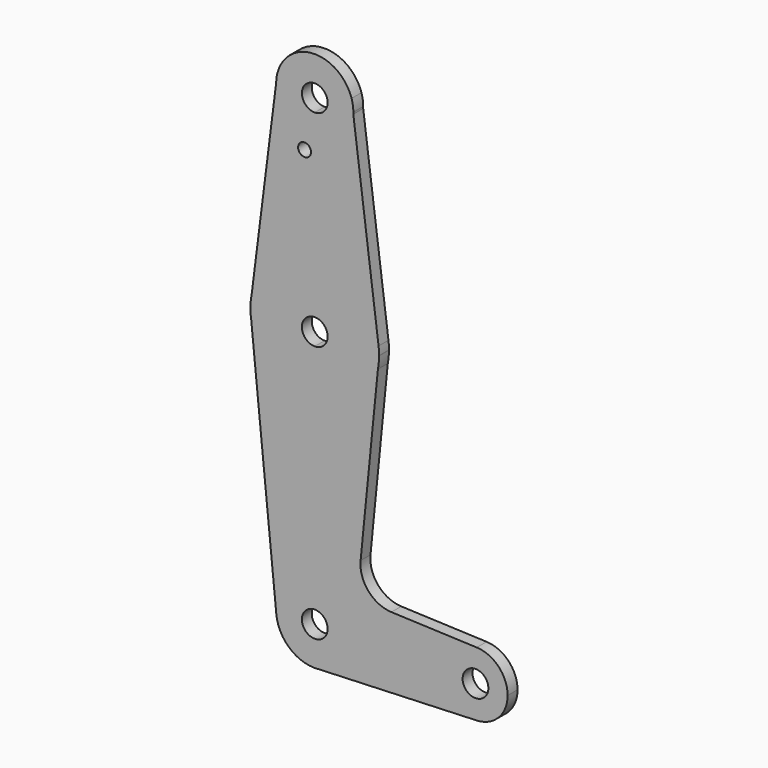
from build123d import *

# Parameters (mm, degrees)
F0_R     = 1.5939084554
F1_DEPTH = 3.048


with BuildPart() as f1:
    # F0 (on Front) → F1 (new body)
    with BuildSketch(Plane.XZ):
        with BuildLine():
            ThreePointArc((-37.513228268, 58.1266457065), (-37.5049761739, 58.3554311802), (-37.5022249461, 58.5843488964))
            ThreePointArc((-37.5022249461, 58.5843488964), (-37.6124710423, 60.0293519865), (-37.9406572675, 61.4409050085))
            Line((-37.9406572675, 61.4409050085), (-37.513228268, 58.1266457065))
        make_face()
        with BuildLine():
            Line((-37.513228268, 58.1266457065), (-37.9406572675, 61.4409050085))
            ThreePointArc((-37.9406572675, 61.4409050085), (-47.3561500663, 68.1036678461), (-56.2892930862, 60.8068967067))
            Line((-56.2892930862, 60.8068967067), (-56.5510749385, 58.7323567411))
            ThreePointArc((-56.5510749385, 58.7323567411), (-53.8145439942, 51.9016903581), (-47.0272249461, 49.0593488964))
            ThreePointArc((-47.0272249461, 49.0593488964), (-40.4558475366, 51.689232948), (-37.513228268, 58.1266457065))
        make_face()
        with BuildLine():
            ThreePointArc((-43.8522249461, 58.5843488964), (-44.7821609158, 56.3392848661), (-47.0272249461, 55.4093488964))
            ThreePointArc((-47.0272249461, 55.4093488964), (-49.2722889764, 60.8294129267), (-43.8522249461, 58.5843488964))
        make_face(mode=Mode.SUBTRACT)
        with BuildLine():
            Line((-31.2826202902, 9.8148781945), (-37.513228268, 58.1266457065))
            ThreePointArc((-37.513228268, 58.1266457065), (-40.4558475366, 51.689232948), (-47.0272249461, 49.0593488964))
            Line((-47.0272249461, 49.0593488964), (-47.0272249461, 23.6593488964))
            ThreePointArc((-47.0272249461, 23.6593488964), (-36.5443586302, 19.7059737355), (-31.2826202902, 9.8148781945))
        make_face()
        with BuildLine():
            Line((-56.5510749385, 58.7323567411), (-56.2892930862, 60.8068967067))
            ThreePointArc((-56.2892930862, 60.8068967067), (-56.4772836251, 59.7768320044), (-56.5510749385, 58.7323567411))
        make_face()
        with BuildLine():
            Line((-47.0272249461, 23.6593488964), (-47.0272249461, 49.0593488964))
            ThreePointArc((-47.0272249461, 49.0593488964), (-53.8145439942, 51.9016903581), (-56.5510749385, 58.7323567411))
            Line((-56.5510749385, 58.7323567411), (-62.5761934224, 10.9851619686))
            ThreePointArc((-62.5761934224, 10.9851619686), (-57.0572478145, 20.0893993335), (-47.0272249461, 23.6593488964))
        make_face()
        with Locations((-49.5402999222, 46.5105995536)):
            Circle(F0_R, mode=Mode.SUBTRACT)
        with BuildLine():
            ThreePointArc((-31.1522249461, 7.7843488964), (-31.1848573214, 8.8017048047), (-31.2826202902, 9.8148781945))
            ThreePointArc((-31.2826202902, 9.8148781945), (-36.5443586302, 19.7059737355), (-47.0272249461, 23.6593488964))
            Line((-47.0272249461, 23.6593488964), (-47.0272249461, 10.9593488964))
            ThreePointArc((-47.0272249461, 10.9593488964), (-44.7821609158, 10.0294129267), (-43.8522249461, 7.7843488964))
            ThreePointArc((-43.8522249461, 7.7843488964), (-44.7821609158, 5.5392848661), (-47.0272249461, 4.6093488964))
            Line((-47.0272249461, 4.6093488964), (-47.0272249461, -8.0906511036))
            ThreePointArc((-47.0272249461, -8.0906511036), (-36.9406754756, -4.4744089844), (-31.4494526235, 4.7267952233))
            Line((-31.4494526235, 4.7267952233), (-31.1523694634, 7.7166111531))
            ThreePointArc((-31.1523694634, 7.7166111531), (-31.1522610755, 7.7504799477), (-31.1522249461, 7.7843488964))
        make_face()
        with BuildLine():
            Line((-47.0272249461, 10.9593488964), (-47.0272249461, 23.6593488964))
            ThreePointArc((-47.0272249461, 23.6593488964), (-57.0572478145, 20.0893993335), (-62.5761934224, 10.9851619686))
            ThreePointArc((-62.5761934224, 10.9851619686), (-62.849805464, 9.0733681958), (-62.8892440844, 7.1424970002))
            Line((-62.8892440844, 7.1424970002), (-62.7019557202, 5.2706981331))
            ThreePointArc((-62.7019557202, 5.2706981331), (-57.3255602274, -4.2970382521), (-47.0272249461, -8.0906511036))
            Line((-47.0272249461, -8.0906511036), (-47.0272249461, 4.6093488964))
            ThreePointArc((-47.0272249461, 4.6093488964), (-50.2022249461, 7.7843488964), (-47.0272249461, 10.9593488964))
        make_face()
        with BuildLine():
            ThreePointArc((-31.4494526235, 4.7267952233), (-31.2300195353, 6.2146590511), (-31.1523694634, 7.7166111531))
            Line((-31.1523694634, 7.7166111531), (-31.4494526235, 4.7267952233))
        make_face()
        with BuildLine():
            Line((-62.7019557202, 5.2706981331), (-62.8892440844, 7.1424970002))
            ThreePointArc((-62.8892440844, 7.1424970002), (-62.8233496768, 6.203820981), (-62.7019557202, 5.2706981331))
        make_face()
        with BuildLine():
            Line((-35.7167991292, -38.2193635433), (-31.4494526235, 4.7267952233))
            ThreePointArc((-31.4494526235, 4.7267952233), (-36.9406754756, -4.4744089844), (-47.0272249461, -8.0906511036))
            Line((-47.0272249461, -8.0906511036), (-47.0272249461, -46.1906511036))
            ThreePointArc((-47.0272249461, -46.1906511036), (-40.2920328553, -48.9804590128), (-37.5022249461, -55.7156511036))
            Line((-37.5022249461, -55.7156511036), (-15.310948927, -55.7156511036))
            ThreePointArc((-15.310948927, -55.7156511036), (-12.8738194092, -49.9929043149), (-7.0590230542, -47.7843811788))
            Line((-7.0590230542, -47.7843811788), (-28.1204876136, -46.9494241745))
            ThreePointArc((-28.1204876136, -46.9494241745), (-33.8031377964, -44.2241541431), (-35.7167991292, -38.2193635433))
        make_face()
        with BuildLine():
            ThreePointArc((-47.0272249461, -8.0906511036), (-57.3255602274, -4.2970382521), (-62.7019557202, 5.2706981331))
            Line((-62.7019557202, 5.2706981331), (-56.5048997845, -56.6639678528))
            ThreePointArc((-56.5048997845, -56.6639678528), (-54.0897436907, -49.3245280425), (-47.0272249461, -46.1906511036))
            Line((-47.0272249461, -46.1906511036), (-47.0272249461, -8.0906511036))
        make_face()
        with BuildLine():
            ThreePointArc((-47.0272249461, -46.1906511036), (-54.0897436907, -49.3245280425), (-56.5048997845, -56.6639678528))
            ThreePointArc((-56.5048997845, -56.6639678528), (-53.0237393117, -63.1161538205), (-45.9900241775, -65.1840110231))
            ThreePointArc((-45.9900241775, -65.1840110231), (-39.9348007371, -62.0735708766), (-37.5022249461, -55.7156511036))
            Line((-37.5022249461, -55.7156511036), (-43.8522249461, -55.7156511036))
            ThreePointArc((-43.8522249461, -55.7156511036), (-49.2722889764, -57.9607151339), (-47.0272249461, -52.5406511036))
            Line((-47.0272249461, -52.5406511036), (-47.0272249461, -46.1906511036))
        make_face()
        with BuildLine():
            ThreePointArc((-37.5022249461, -55.7156511036), (-39.9348007371, -62.0735708766), (-45.9900241775, -65.1840110231))
            Line((-45.9900241775, -65.1840110231), (-7.0603012501, -63.6469715978))
            ThreePointArc((-7.0603012501, -63.6469715978), (-12.8742805261, -61.4379546579), (-15.310948927, -55.7156511036))
            Line((-15.310948927, -55.7156511036), (-37.5022249461, -55.7156511036))
        make_face()
        with BuildLine():
            ThreePointArc((0.564051073, -55.7156511036), (-1.6507021383, -50.2152806213), (-7.0590230542, -47.7843811788))
            ThreePointArc((-7.0590230542, -47.7843811788), (-12.8738194092, -49.9929043149), (-15.310948927, -55.7156511036))
            ThreePointArc((-15.310948927, -55.7156511036), (-12.8742805261, -61.4379546579), (-7.0603012501, -63.6469715978))
            ThreePointArc((-7.0603012501, -63.6469715978), (-1.6511453727, -61.2164827028), (0.564051073, -55.7156511036))
        make_face()
        with BuildLine():
            ThreePointArc((-4.198448927, -55.7156511036), (-7.373448927, -58.8906511036), (-10.548448927, -55.7156511036))
            ThreePointArc((-10.548448927, -55.7156511036), (-7.373448927, -52.5406511036), (-4.198448927, -55.7156511036))
        make_face(mode=Mode.SUBTRACT)
        with BuildLine():
            ThreePointArc((-37.5022249461, -55.7156511036), (-40.2920328553, -48.9804590128), (-47.0272249461, -46.1906511036))
            Line((-47.0272249461, -46.1906511036), (-47.0272249461, -52.5406511036))
            ThreePointArc((-47.0272249461, -52.5406511036), (-44.7821609158, -53.4705870733), (-43.8522249461, -55.7156511036))
            Line((-43.8522249461, -55.7156511036), (-37.5022249461, -55.7156511036))
        make_face()
    extrude(amount=F1_DEPTH)


solid = f1.part
